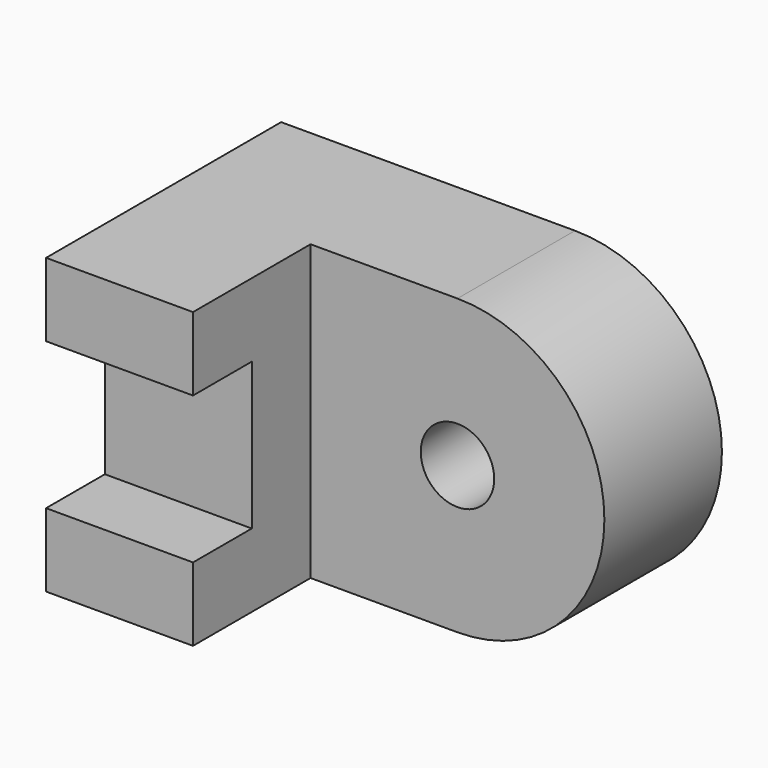
from build123d import *

# Parameters (mm, degrees)
F1_DEPTH = 12.7
F2_R     = 3.175
F3_DEPTH = 25.4
F4_W     = 12.7
F4_H     = 25.4
F5_DEPTH = 12.7
F6_W     = 12.7
F6_H     = 12.7
F7_DEPTH = 6.35


with BuildPart() as f1:
    # F0 (on Front) → F1 (new body)
    with BuildSketch(Plane.XZ):
        with BuildLine():
            Line((-12.7, -12.7), (0, -12.7))
            ThreePointArc((0, -12.7), (12.7, 0), (0, 12.7))
            Line((0, 12.7), (-12.7, 12.7))
            Line((-12.7, 12.7), (-12.7, -12.7))
        make_face()
    extrude(amount=F1_DEPTH)

    # F2 (on face) → F3 (cut)
    with BuildSketch(Plane.XZ.offset(12.7)):
        Circle(F2_R)
    extrude(amount=-F3_DEPTH, mode=Mode.SUBTRACT)

    # F4 (on face) → F5 (join)
    with BuildSketch(Plane(origin=(-12.7, 0, 0), x_dir=(0, -1, 0), z_dir=(-1, 0, 0))):
        with Locations((6.35, 0)):
            Rectangle(F4_W, F4_H)
        with Locations((19.05, 0)):
            Rectangle(F4_W, F4_H)
    extrude(amount=F5_DEPTH)

    # F6 (on face) → F7 (cut)
    with BuildSketch(Plane.XZ.offset(25.4)):
        with Locations((-19.05, 0)):
            Rectangle(F6_W, F6_H)
    extrude(amount=-F7_DEPTH, mode=Mode.SUBTRACT)


solid = f1.part
